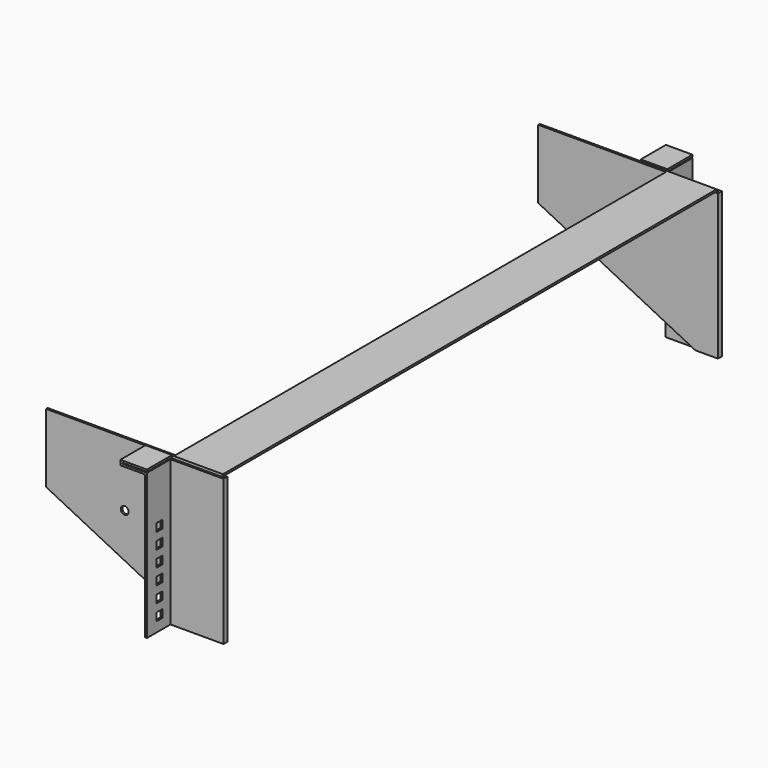
from build123d import *

# Parameters (mm, degrees)
F0_W      = 2
F0_H      = 148
F1_DEPTH  = 50
F3_DEPTH  = 130
F4_W      = 2
F4_H      = 148
F5_DEPTH  = 3
F6_W      = 2
F6_H      = 148
F7_DEPTH  = 5
F8_W      = 2
F8_H      = 148
F9_DEPTH  = 54
F10_W     = 2
F10_H     = 148
F11_DEPTH = 30
F13_DEPTH = 761
F14_W     = 2
F14_H     = 148
F15_DEPTH = 3
F16_W     = 2
F16_H     = 148
F17_DEPTH = 54
F18_W     = 2
F18_H     = 148
F19_DEPTH = 30
F20_W     = 32
F20_H     = 2
F21_DEPTH = 25
F22_W     = 2
F22_H     = 32
F23_DEPTH = 3
F24_W     = 32
F24_H     = 2
F25_DEPTH = 25
F26_W     = 8
F26_H     = 8
F27_DEPTH = 25
F28_W     = 32
F28_H     = 2
F29_DEPTH = 25
F30_W     = 2
F30_H     = 32
F31_DEPTH = 3
F32_W     = 32
F32_H     = 2
F33_DEPTH = 25
F34_W     = 8
F34_H     = 8
F35_DEPTH = 25
F37_D     = 8


with BuildPart() as f1:
    # F0 (on Right) → F1 (new body)
    with BuildSketch(Plane.YZ):
        Polygon((314, 150), (-314, 150), (-314, 148), (-312, 148), (312, 148), (314, 148), align=None)
        with Locations((313, 74)):
            Rectangle(F0_W, F0_H)
        with Locations((-313, 74)):
            Rectangle(F0_W, F0_H)
    extrude(amount=-F1_DEPTH)

    # F2 (on face) → F3 (join)
    with BuildSketch(Plane(origin=(-50, 0, 0), x_dir=(0, -1, 0), z_dir=(-1, 0, 0))):
        Polygon((312, 0), (314, 0), (314, 150), (312, 150), (312, 148), align=None)
        Polygon((-312, 0), (-312, 148), (-312, 150), (-314, 150), (-314, 0), align=None)
    extrude(amount=F3_DEPTH)

    # F4 (on face) → F5 (join)
    with BuildSketch(Plane.YZ):
        with Locations((313, 74)):
            Rectangle(F4_W, F4_H)
        with Locations((-313, 74)):
            Rectangle(F4_W, F4_H)
    extrude(amount=F5_DEPTH)

    # F6 (on face) → F7 (join)
    with BuildSketch(Plane(origin=(0, -312, 0), x_dir=(-1, 0, 0), z_dir=(0, 1, 0))):
        with Locations((-2, 74)):
            Rectangle(F6_W, F6_H)
    extrude(amount=-F7_DEPTH)

    # F8 (on face) → F9 (join)
    with BuildSketch(Plane(origin=(1, 0, 0), x_dir=(0, -1, 0), z_dir=(-1, 0, 0))):
        with Locations((316, 74)):
            Rectangle(F8_W, F8_H)
    extrude(amount=F9_DEPTH)

    # F10 (on face) → F11 (join)
    with BuildSketch(Plane.XZ.offset(317)):
        with Locations((-52, 74)):
            Rectangle(F10_W, F10_H)
    extrude(amount=F11_DEPTH)

    # F12 (on face) → F13 (cut)
    with BuildSketch(Plane.XZ.offset(314)):
        Polygon((-180, 0), (-20, 0), (-180, 80), align=None)
    extrude(amount=-F13_DEPTH, mode=Mode.SUBTRACT)

    # F14 (on face) → F15 (join)
    with BuildSketch(Plane(origin=(0, 314, 0), x_dir=(-1, 0, 0), z_dir=(0, 1, 0))):
        with Locations((-2, 74)):
            Rectangle(F14_W, F14_H)
    extrude(amount=F15_DEPTH)

    # F16 (on face) → F17 (join)
    with BuildSketch(Plane(origin=(1, 0, 0), x_dir=(0, -1, 0), z_dir=(-1, 0, 0))):
        with Locations((-316, 74)):
            Rectangle(F16_W, F16_H)
    extrude(amount=F17_DEPTH)

    # F18 (on face) → F19 (join)
    with BuildSketch(Plane(origin=(0, 317, 0), x_dir=(-1, 0, 0), z_dir=(0, 1, 0))):
        with Locations((52, 74)):
            Rectangle(F18_W, F18_H)
    extrude(amount=F19_DEPTH)

    # F20 (on face) → F21 (join)
    with BuildSketch(Plane(origin=(-53, 0, 0), x_dir=(0, -1, 0), z_dir=(-1, 0, 0))):
        with Locations((-331, 147)):
            Rectangle(F20_W, F20_H)
    extrude(amount=F21_DEPTH)

    # F22 (on face) → F23 (join)
    with BuildSketch(Plane.XY.offset(148)):
        with Locations((-77, 331)):
            Rectangle(F22_W, F22_H)
    extrude(amount=F23_DEPTH)

    # F24 (on face) → F25 (join)
    with BuildSketch(Plane.YZ.offset(-76)):
        with Locations((331, 150)):
            Rectangle(F24_W, F24_H)
    extrude(amount=F25_DEPTH)

    # F26 (on face) → F27 (cut)
    with BuildSketch(Plane(origin=(-53, 0, 0), x_dir=(0, -1, 0), z_dir=(-1, 0, 0))):
        with Locations((-331, 94)):
            Rectangle(F26_W, F26_H)
        with Locations((-331, 78)):
            Rectangle(F26_W, F26_H)
        with Locations((-331, 62)):
            Rectangle(F26_W, F26_H)
        with Locations((-331, 46)):
            Rectangle(F26_W, F26_H)
        with Locations((-331, 30)):
            Rectangle(F26_W, F26_H)
        with Locations((-331, 14)):
            Rectangle(F26_W, F26_H)
    extrude(amount=-F27_DEPTH, mode=Mode.SUBTRACT)

    # F28 (on face) → F29 (join)
    with BuildSketch(Plane(origin=(-53, 0, 0), x_dir=(0, -1, 0), z_dir=(-1, 0, 0))):
        with Locations((331, 147)):
            Rectangle(F28_W, F28_H)
    extrude(amount=F29_DEPTH)

    # F30 (on face) → F31 (join)
    with BuildSketch(Plane.XY.offset(148)):
        with Locations((-77, -331)):
            Rectangle(F30_W, F30_H)
    extrude(amount=F31_DEPTH)

    # F32 (on face) → F33 (join)
    with BuildSketch(Plane.YZ.offset(-76)):
        with Locations((-331, 150)):
            Rectangle(F32_W, F32_H)
    extrude(amount=F33_DEPTH)

    # F34 (on face) → F35 (cut)
    with BuildSketch(Plane(origin=(-53, 0, 0), x_dir=(0, -1, 0), z_dir=(-1, 0, 0))):
        with Locations((331, 78)):
            Rectangle(F34_W, F34_H)
        with Locations((331, 62)):
            Rectangle(F34_W, F34_H)
        with Locations((331, 46)):
            Rectangle(F34_W, F34_H)
        with Locations((331, 30)):
            Rectangle(F34_W, F34_H)
        with Locations((331, 14)):
            Rectangle(F34_W, F34_H)
        with Locations((331, 94)):
            Rectangle(F34_W, F34_H)
    extrude(amount=-F35_DEPTH, mode=Mode.SUBTRACT)

    # F37 (through all)
    with Locations(Plane.XZ.offset(314)):
        with Locations((-100, 85)):
            Hole(F37_D / 2)


solid = f1.part
